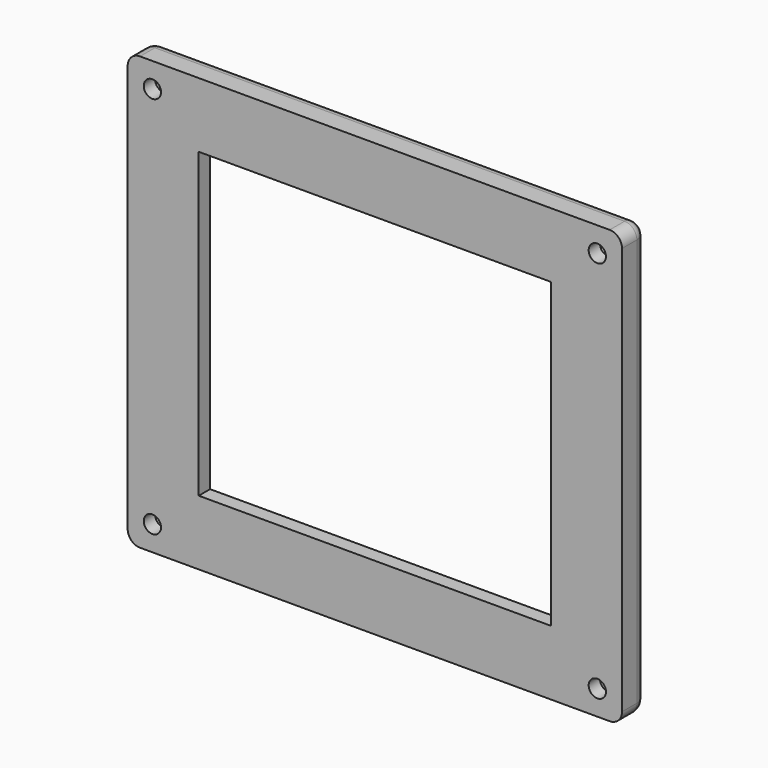
from build123d import *

# Parameters (mm, degrees)
F0_W           = 80
F0_H           = 70
F0_W_2         = 65
F0_H_2         = 57
F1_DEPTH       = 5
F2_R           = 2
F5_D           = 2.8
F5_DEPTH       = 5
F5_START       = 0.213943
F5_CBORE_D     = 5.8
F5_CBORE_DEPTH = 2.5
F5_TIP         = 0.8412048666
F7_W           = 65
F7_H           = 57
F7_W_2         = 57
F7_H_2         = 49
F8_DEPTH       = 2.3


with BuildPart() as f1:
    # F0 (on Front) → F1 (new body)
    with BuildSketch(Plane.XZ):
        Rectangle(F0_W, F0_H)
        Rectangle(F0_W_2, F0_H_2, mode=Mode.SUBTRACT)
    extrude(amount=F1_DEPTH)

    # F2
    f2_edges = [f1.edges().sort_by_distance(p)[0] for p in [
        (0, 0, 35),
        (-40, 0, 0),
        (-40, -2.5, 35),
        (0, 0, -35),
        (-40, -2.5, -35),
        (40, 0, 0),
        (40, -2.5, -35),
        (40, -2.5, 35),
    ]]
    fillet(f2_edges, radius=F2_R)

    # F5
    # its depths count from where the whole tool has entered the part; down to there all is cleared
    with Locations(Plane(origin=(0, 0, 0), x_dir=(-1, 0, 0), z_dir=(0, 1, 0)).offset(-F5_START)):
        with Locations((-36, -31), (-36, 31), (36, 31), (36, -31)):
            CounterBoreHole(F5_D / 2, F5_CBORE_D / 2, F5_CBORE_DEPTH, depth=F5_DEPTH)
            with Locations((0, 0, -(F5_DEPTH + F5_TIP / 2))):  # 118° drill point
                Cone(0, F5_D / 2, F5_TIP, mode=Mode.SUBTRACT)

    # F7 (on offset) → F8 (join)
    with BuildSketch(Plane.XZ.offset(5)):
        Rectangle(F7_W, F7_H)
        Rectangle(F7_W_2, F7_H_2, mode=Mode.SUBTRACT)
    extrude(amount=-F8_DEPTH)


solid = f1.part
